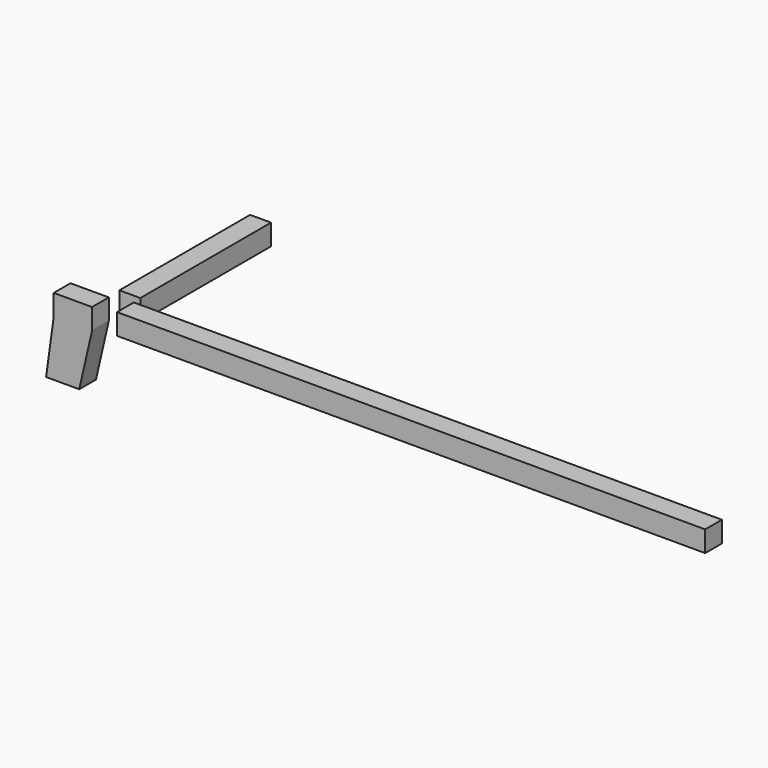
from build123d import *

# Parameters (mm, degrees)
F1_DEPTH = 41
F2_W     = 1152
F2_H     = 41
F3_DEPTH = 41
F4_W     = 320
F4_H     = 41
F5_DEPTH = 41


with BuildPart() as f1:
    # F0 (on Front) → F1 (new body)
    with BuildSketch(Plane.XZ):
        Polygon((3.41058, 78.639174), (-71.58942, 78.639174), (-71.58942, 37.639174), (-86.58942, -71.360826), (-21.654289, -71.360826), (3.41058, 37.639174), align=None)
    extrude(amount=F1_DEPTH)


with BuildPart() as f3:
    # F2 (on Front) → F3 (new body)
    with BuildSketch(Plane.XZ):
        with Locations((628.404556, 65.313812)):
            Rectangle(F2_W, F2_H)
    extrude(amount=F3_DEPTH)


with BuildPart() as f5:
    # F4 (on Right) → F5 (new body)
    with BuildSketch(Plane.YZ):
        with Locations((190.279366, 56.91339)):
            Rectangle(F4_W, F4_H)
    extrude(amount=F5_DEPTH)


solid = Compound([f1.part, f3.part, f5.part])
